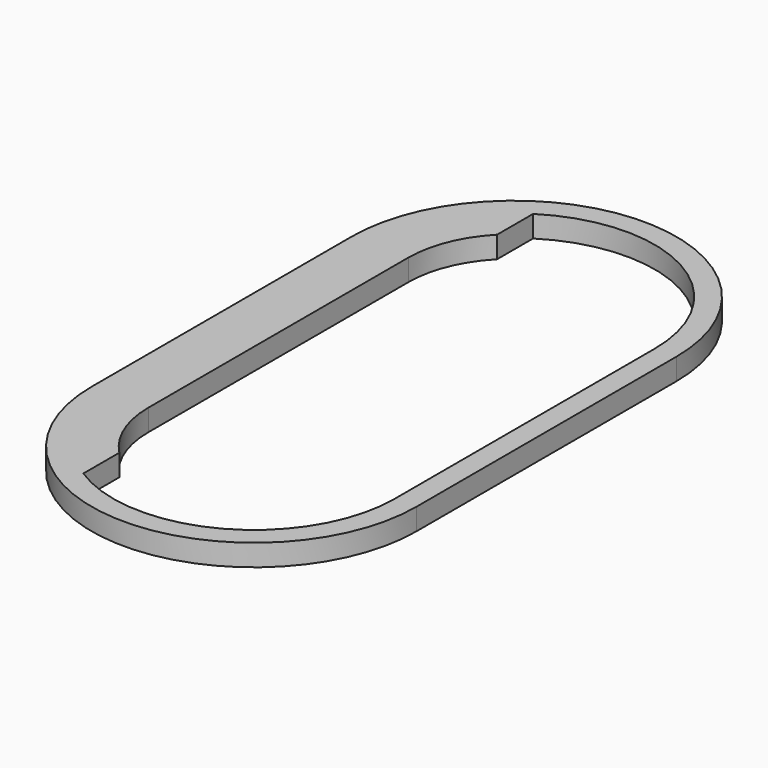
from build123d import *

# Parameters (mm, degrees)
PAD_DEPTH = 2


with BuildPart() as part:
    # Sketch → Pad (new body)
    with BuildSketch(Plane.XY):
        with BuildLine():
            ThreePointArc((-15, 0), (0, -15), (15, 0))
            Line((15, 0), (15, 30))
            ThreePointArc((15, 30), (0, 45), (-15, 30))
            Line((-15, 30), (-15, 0))
        make_face()
        with BuildLine():
            ThreePointArc((-7, -10.954451), (6.244998, -11.401754), (13, 0))
            Line((13, 30), (13, 0))
            ThreePointArc((13, 30), (6.244998, 41.401754), (-7, 40.954451))
            Line((-7, 40.954451), (-7, 36.801294))
            ThreePointArc((-7, 36.801294), (-9.043716, 33.669986), (-9.76, 30))
            Line((-9.76, 30), (-9.76, 0))
            ThreePointArc((-9.76, 0), (-9.043716, -3.669986), (-7, -6.801294))
            Line((-7, -10.954451), (-7, -6.801294))
        make_face(mode=Mode.SUBTRACT)
    extrude(amount=PAD_DEPTH)


solid = part.part
